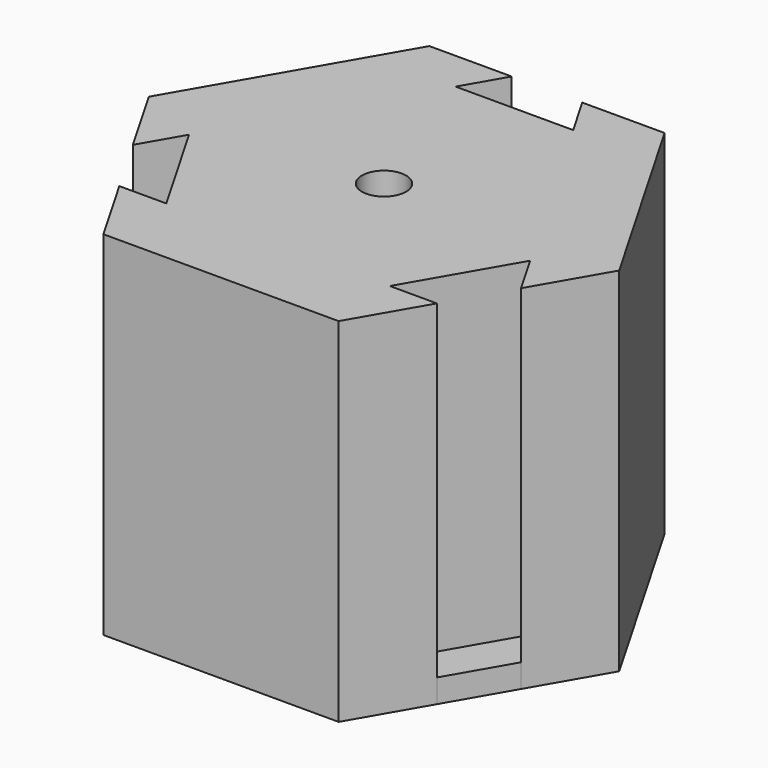
from build123d import *

# Parameters (mm, degrees)
F0_R     = 1.875
F1_DEPTH = 30
F2_DEPTH = 2


with BuildPart() as f1:
    # F0 (on Top) → F1 (new body)
    with BuildSketch(Plane.XY):
        Polygon((16.5, -6.062178), (20, 0), (10, 17.320508), (3, 17.320508), (5, 13.856406), (-5, 13.856406), (-3, 17.320508), (-10, 17.320508), (-20, 0), (-16.5, -6.062178), (-14.5, -2.598076), (-9.5, -11.25833), (-13.5, -11.25833), (-10, -17.320508), (10, -17.320508), (13.5, -11.25833), (9.5, -11.25833), (14.5, -2.598076), align=None)
        Circle(F0_R, mode=Mode.SUBTRACT)
    extrude(amount=F1_DEPTH)

    # F0 (on Top) → F2 (join)
    with BuildSketch(Plane.XY):
        Polygon((-16.5, -6.062178), (-13.5, -11.25833), (-9.5, -11.25833), (-14.5, -2.598076), align=None)
        Polygon((13.5, -11.25833), (16.5, -6.062178), (14.5, -2.598076), (9.5, -11.25833), align=None)
        Polygon((5, 13.856406), (3, 17.320508), (-3, 17.320508), (-5, 13.856406), align=None)
    extrude(amount=F2_DEPTH)


solid = f1.part
